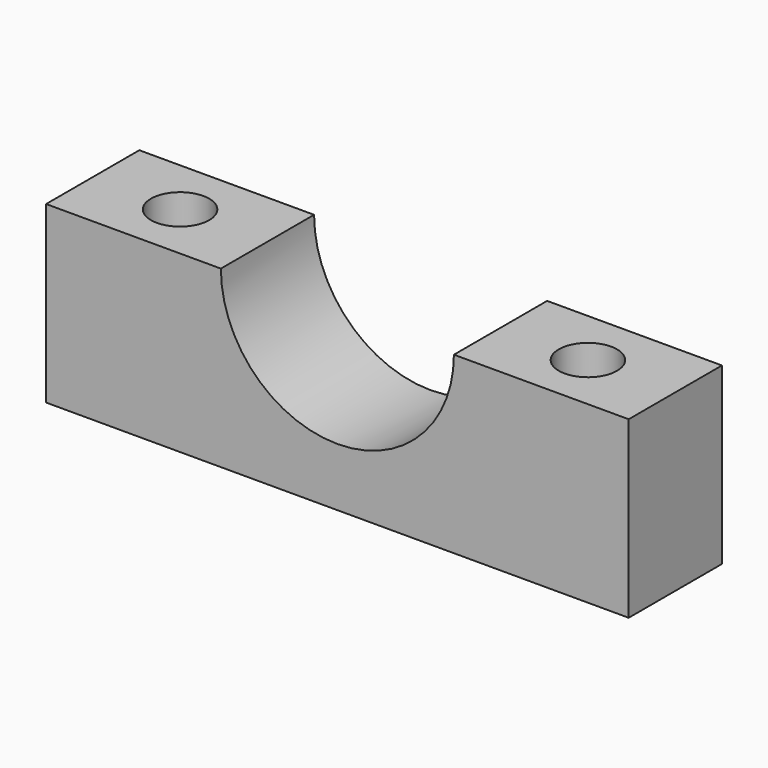
from build123d import *

# Parameters (mm, degrees)
F0_R     = 2.5
F1_DEPTH = 15
F3_DEPTH = 10


with BuildPart() as f1:
    # F0 (on Top) → F1 (new body)
    with BuildSketch(Plane.XY):
        with BuildLine():
            ThreePointArc((-17.907068, 5), (-20.407068, 7.5), (-22.907068, 5))
            ThreePointArc((-22.907068, 5), (-20.407068, 2.5), (-17.907068, 5))
        make_face()
        with Locations((14.592932, 5)):
            Circle(F0_R)
        Polygon((22.092932, 10), (-27.907068, 10), (-27.907068, 5), (-27.907068, 0), (22.092932, 0), (22.092932, 5), align=None)
        with BuildLine():
            ThreePointArc((-17.907068, 5), (-20.407068, 2.5), (-22.907068, 5))
            ThreePointArc((-22.907068, 5), (-20.407068, 7.5), (-17.907068, 5))
        make_face(mode=Mode.SUBTRACT)
        with Locations((14.592932, 5)):
            Circle(F0_R, mode=Mode.SUBTRACT)
    extrude(amount=F1_DEPTH)

    # F2 (on Front) → F3 (cut)
    with BuildSketch(Plane.XZ):
        with BuildLine():
            Line((7.092932, 15), (-12.907068, 15))
            ThreePointArc((-12.907068, 15), (-2.907068, 5), (7.092932, 15))
        make_face()
    extrude(amount=-F3_DEPTH, mode=Mode.SUBTRACT)


solid = f1.part
